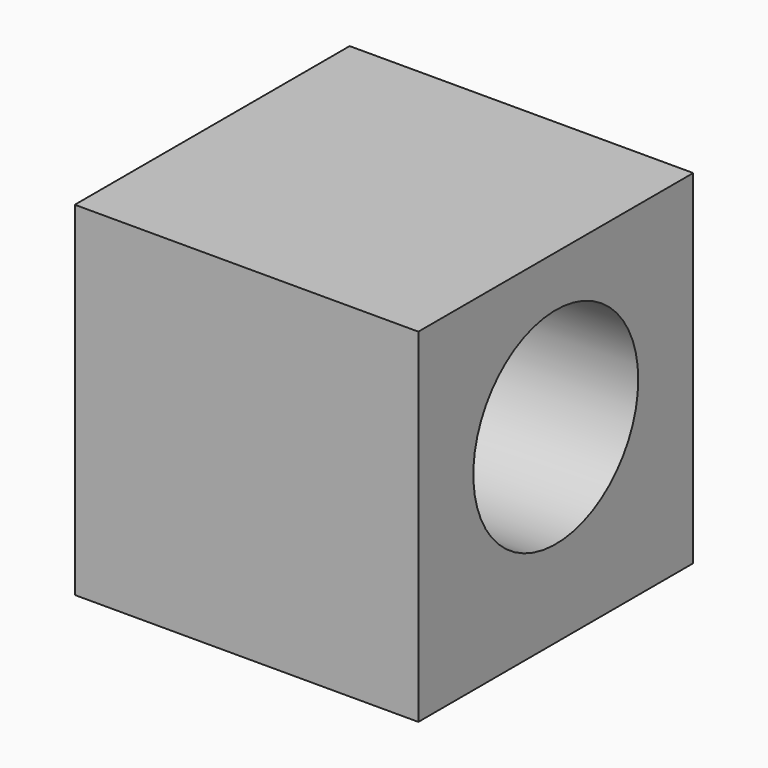
from build123d import *

# Parameters (mm, degrees)
F0_W     = 127
F0_H     = 127
F1_DEPTH = 127
F2_R     = 38.1
F3_DEPTH = 127.001


with BuildPart() as f1:
    # F0 (on Front) → F1 (new body)
    with BuildSketch(Plane.XZ):
        with Locations((7.58714, -6.641647)):
            Rectangle(F0_W, F0_H)
    extrude(amount=-F1_DEPTH)

    # F2 (on face) → F3 (cut, through all)
    with BuildSketch(Plane.YZ.offset(71.08714)):
        with Locations((63.5, 0)):
            Circle(F2_R)
    extrude(amount=-F3_DEPTH, mode=Mode.SUBTRACT)


solid = f1.part
